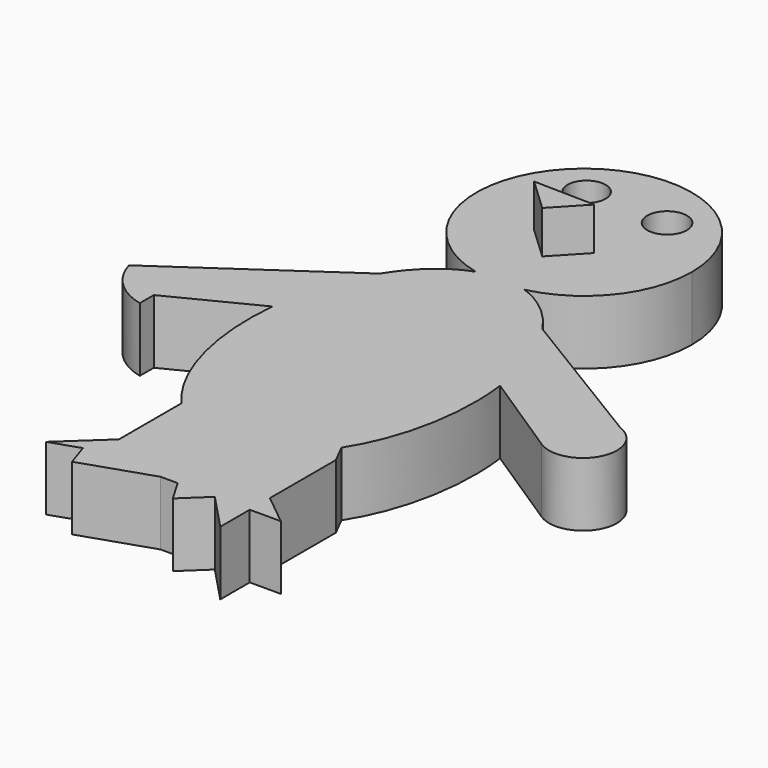
from build123d import *

# Parameters (mm, degrees)
F0_R     = 2.2630292546
F0_R_2   = 2.3602649753
F2_DEPTH = 7.62
F3_DEPTH = 12.7


with BuildPart() as f2:
    # F0 (on Top) → F2 (new body)
    with BuildSketch(Plane.XY):
        with BuildLine():
            ThreePointArc((2.8852765554, 37.7261554636), (0, 37.3973958135), (-2.8852765554, 37.7261554636))
            add(Edge.make_bspline(
                [(-2.8852765554, 37.7261554636), (-6.8245742419, 36.3741381439), (-9.6375415915, 31.8580638957)],
                knots=[3.3578184004, 3.3578184004, 3.3578184004, 3.9405553255, 3.9405553255, 3.9405553255], degree=2, weights=[1, 0.9578516635, 1]))
            add(Edge.make_bspline(
                [(-9.6375415915, 31.8580638957), (-12.6245392672, 27.0625929194), (-13.2866680532, 20.4513808778)],
                knots=[3.9405553255, 3.9405553255, 3.9405553255, 4.5571622765, 4.5571622765, 4.5571622765], degree=2, weights=[1, 0.9528497386, 1]))
            add(Edge.make_bspline(
                [(-13.2866680532, 20.4513808778), (-14.5820181575, 7.5175915771), (-7.7226976195, 0)],
                knots=[4.5571622765, 4.5571622765, 4.5571622765, 5.6714998897, 5.6714998897, 5.6714998897], degree=2, weights=[1, 0.8487556042, 1]))
            add(Edge.make_bspline(
                [(-7.7226976195, 0), (-4.246317086, -3.8099996746), (0, -3.8099996746)],
                knots=[5.6714998897, 5.6714998897, 5.6714998897, 6.2831853072, 6.2831853072, 6.2831853072], degree=2, weights=[1, 0.9535935542, 1]))
            add(Edge.make_bspline(
                [(0, -3.8099996746), (5.5353839449, -3.8099996746), (9.4669133846, 2.278350741)],
                knots=[0, 0, 0, 0.7809371412, 0.7809371412, 0.7809371412], degree=2, weights=[1, 0.9247308132, 1]))
            add(Edge.make_bspline(
                [(9.4669133846, 2.278350741), (14.5731274994, 10.1858130417), (13.201240802, 21.2124602415)],
                knots=[0.7809371412, 0.7809371412, 0.7809371412, 1.7627978346, 1.7627978346, 1.7627978346], degree=2, weights=[1, 0.8818946316, 1]))
            add(Edge.make_bspline(
                [(13.201240802, 21.2124602415), (12.3683722259, 27.9067069092), (9.1782898168, 32.5609463814)],
                knots=[1.7627978346, 1.7627978346, 1.7627978346, 2.3904372163, 2.3904372163, 2.3904372163], degree=2, weights=[1, 0.9511613958, 1]))
            add(Edge.make_bspline(
                [(9.1782898168, 32.5609463814), (6.484726851, 36.4907781126), (2.8852765554, 37.7261554636)],
                knots=[2.3904372163, 2.3904372163, 2.3904372163, 2.9253669068, 2.9253669068, 2.9253669068], degree=2, weights=[1, 0.964444004, 1]))
        make_face()
        with BuildLine():
            ThreePointArc((2.8852765554, 37.7261554636), (10.0372752135, 42.2388532596), (12.825332588, 50.2227284014))
            ThreePointArc((12.825332588, 50.2227284014), (-7.9838751418, 60.2600036149), (-2.8852765554, 37.7261554636))
            add(Edge.make_bspline(
                [(2.8852765554, 37.7261554636), (0, 38.7164192581), (-2.8852765554, 37.7261554636)],
                knots=[2.9253669068, 2.9253669068, 2.9253669068, 3.3578184004, 3.3578184004, 3.3578184004], degree=2, weights=[1, 0.9767141504, 1]))
        make_face()
        with Locations((-4.9115850834, 56.7294890971)):
            Circle(F0_R, mode=Mode.SUBTRACT)
        with Locations((4.8438443438, 56.5084376901)):
            Circle(F0_R_2, mode=Mode.SUBTRACT)
        with BuildLine():
            add(Edge.make_bspline(
                [(-7.7226976195, 0), (-4.246317086, -3.8099996746), (0, -3.8099996746)],
                knots=[5.6714998897, 5.6714998897, 5.6714998897, 6.2831853072, 6.2831853072, 6.2831853072], degree=2, weights=[1, 0.9535935542, 1]))
            Line((-7.7226976195, 0), (-7.7226976195, -6.3500003889))
            Line((-7.7226976195, -6.3500003889), (-7.7226976195, -9.351817891))
            Line((-7.7226976195, -9.351817891), (-12.7000007778, -13.9700006694))
            Line((-12.7000007778, -13.9700006694), (-9.2363632707, -12.8154549748))
            Line((-9.2363632707, -12.8154549748), (-8.3127271469, -15.5863636851))
            Line((-8.3127271469, -15.5863636851), (0, -12.8154549748))
            Line((0, -12.8154549748), (2.0371881326, -12.8154549748))
            Line((2.0371881326, -12.8154549748), (3.621733799, -15.5095071556))
            Line((3.621733799, -15.5095071556), (6.4654541202, -12.8154549748))
            Line((6.4654541202, -12.8154549748), (10.6218196452, -17.2027274966))
            Line((10.6218196452, -17.2027274966), (10.6218196452, -12.8154549748))
            Line((10.6218196452, -12.8154549748), (14.3163641915, -12.8154549748))
            Line((14.3163641915, -12.8154549748), (10.6218196452, -9.8136365414))
            Line((10.6218196452, -9.8136365414), (10.6218196452, 0))
            Line((10.6218196452, 0), (9.4669133846, 2.278350741))
            add(Edge.make_bspline(
                [(0, -3.8099996746), (5.5353839449, -3.8099996746), (9.4669133846, 2.278350741)],
                knots=[0, 0, 0, 0.7809371412, 0.7809371412, 0.7809371412], degree=2, weights=[1, 0.9247308132, 1]))
        make_face()
        Polygon((2.3090913892, -12.8154549748), (2.0371881326, -12.8154549748), (0, -9.351817891), align=None, mode=Mode.SUBTRACT)
        with BuildLine():
            Line((27.2399803309, 21.585002494), (9.1782898168, 32.5609463814))
            add(Edge.make_bspline(
                [(13.201240802, 21.2124602415), (12.3683722259, 27.9067069092), (9.1782898168, 32.5609463814)],
                knots=[1.7627978346, 1.7627978346, 1.7627978346, 2.3904372163, 2.3904372163, 2.3904372163], degree=2, weights=[1, 0.9511613958, 1]))
            Line((13.201240802, 21.2124602415), (23.5818496233, 14.4354407708))
            ThreePointArc((23.5818496233, 14.4354407708), (29.384020835, 15.9773500934), (27.2399803309, 21.585002494))
        make_face()
        with BuildLine():
            add(Edge.make_bspline(
                [(-9.6375415915, 31.8580638957), (-12.6245392672, 27.0625929194), (-13.2866680532, 20.4513808778)],
                knots=[3.9405553255, 3.9405553255, 3.9405553255, 4.5571622765, 4.5571622765, 4.5571622765], degree=2, weights=[1, 0.9528497386, 1]))
            Line((-9.6375415915, 31.8580638957), (-28.8786639856, 18.5975417163))
            ThreePointArc((-28.8786639856, 18.5975417163), (-26.8391016335, 15.175541408), (-23.3367481214, 13.2772736251))
            Line((-23.3367481214, 13.2772736251), (-23.3367481214, 15.3569499893))
            Line((-23.3367481214, 15.3569499893), (-13.2866680532, 20.4513808778))
        make_face()
        with BuildLine():
            add(Edge.make_bspline(
                [(2.8852765554, 37.7261554636), (0, 38.7164192581), (-2.8852765554, 37.7261554636)],
                knots=[2.9253669068, 2.9253669068, 2.9253669068, 3.3578184004, 3.3578184004, 3.3578184004], degree=2, weights=[1, 0.9767141504, 1]))
            ThreePointArc((-2.8852765554, 37.7261554636), (0, 37.3973958135), (2.8852765554, 37.7261554636))
        make_face()
        Polygon((0, -9.351817891), (2.0371881326, -12.8154549748), (2.3090913892, -12.8154549748), align=None)
    extrude(amount=F2_DEPTH)

    # F1 (on Top) → F3 (join)
    with BuildSketch(Plane.XY):
        Polygon((3.3352603271, 47.53189015), (-3.9254548028, 47.6827286184), (0, 43.9881794155), align=None)
    extrude(amount=F3_DEPTH)


solid = f2.part
